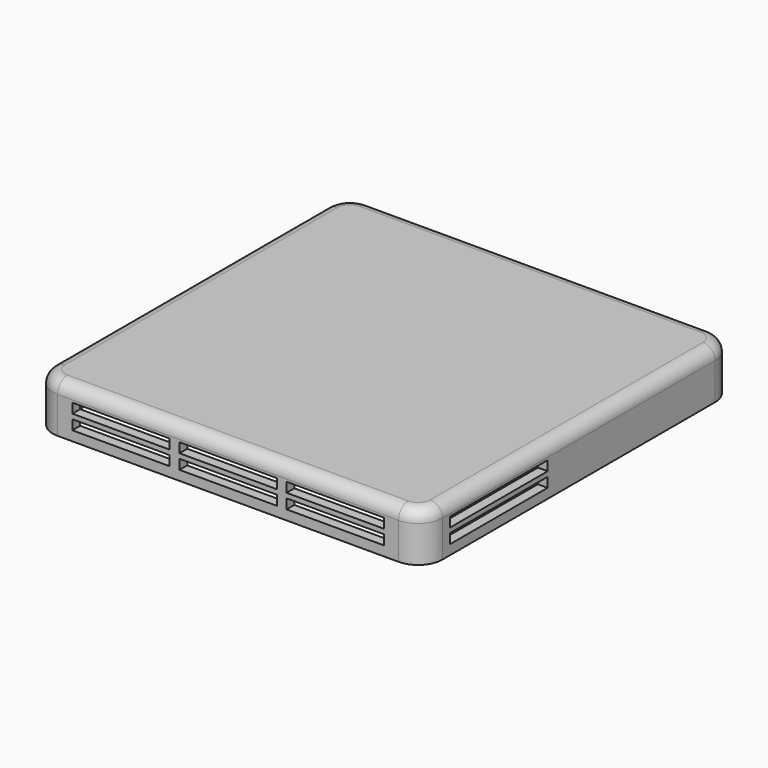
from build123d import *

# Parameters (mm, degrees)
PAD_DEPTH       = 10
FILLET_R        = 2.5
SKETCH002_W     = 20
SKETCH002_H     = 2
POCKET_DEPTH    = 2
POCKET001_DEPTH = 7
SKETCH013_R     = 3
PAD007_DEPTH    = 4
SKETCH014_R     = 1.5
PAD008_DEPTH    = 2
SKETCH015_W     = 25
SKETCH015_H     = 2
POCKET004_DEPTH = 2
SKETCH016_W     = 25
SKETCH016_H     = 2
POCKET005_DEPTH = 2
SKETCH017_W     = 20
SKETCH017_H     = 2
POCKET006_DEPTH = 2
SKETCH018_R     = 1.4
POCKET007_DEPTH = 4
SKETCH023_W     = 5.5
SKETCH023_H     = 1.6
PAD011_DEPTH    = 1.5
CHAMFER001_SIZE = 0.2
SKETCH024_W     = 2.2
SKETCH024_H     = 4.2
POCKET011_DEPTH = 0.5


with BuildPart() as part:
    # Sketch → Pad (new body)
    with BuildSketch(Plane.XY):
        with BuildLine():
            Line((-34.999972, -40), (34.999972, -40))
            ThreePointArc((34.999972, -40), (38.535524, -38.535544), (40, -35))
            Line((40, 35), (40, -35))
            ThreePointArc((40, 35), (38.535534, 38.535534), (35, 40))
            Line((35, 40), (-35, 40))
            ThreePointArc((-35, 40), (-38.535534, 38.535534), (-40, 35))
            Line((-40, 35), (-40, -35))
            ThreePointArc((-40, -35), (-38.535524, -38.535544), (-34.999972, -40))
        make_face()
    extrude(amount=PAD_DEPTH)

    # Fillet
    fillet_edges = [part.edges().sort_by_distance(p)[0] for p in [
        (38.535534, 38.535534, 10),
        (0, 40, 10),
        (-38.535534, 38.535534, 10),
        (-40, 0, 10),
        (-38.535524, -38.535544, 10),
        (0, -40, 10),
        (38.535524, -38.535544, 10),
        (40, 0, 10),
    ]]
    fillet(fillet_edges, radius=FILLET_R)

    # Sketch002 → Pocket (cut)
    with BuildSketch(Plane.XZ.offset(40)):
        with Locations((0, 3)):
            Rectangle(SKETCH002_W, SKETCH002_H)
        with Locations((0, 6)):
            Rectangle(SKETCH002_W, SKETCH002_H)
        with Locations((-22, 3)):
            Rectangle(SKETCH002_W, SKETCH002_H)
        with Locations((-22, 6)):
            Rectangle(SKETCH002_W, SKETCH002_H)
        with Locations((22, 6)):
            Rectangle(SKETCH002_W, SKETCH002_H)
        with Locations((22, 3)):
            Rectangle(SKETCH002_W, SKETCH002_H)
    extrude(amount=-POCKET_DEPTH, mode=Mode.SUBTRACT)

    # Sketch003 → Pocket001 (cut)
    with BuildSketch(Plane(origin=(0, 0, 0), x_dir=(1, 0, 0), z_dir=(0, 0, -1))):
        with BuildLine():
            ThreePointArc((38, 34.999972), (37.121312, 37.121312), (34.999972, 38))
            Line((-35, 38), (34.999972, 38))
            ThreePointArc((-35, 38), (-37.12132, 37.12132), (-38, 35))
            Line((-38, -35.000001), (-38, 35))
            ThreePointArc((-38, -35.000001), (-37.12132, -37.121321), (-35, -38))
            Line((34.999987, -38), (-35, -38))
            ThreePointArc((34.999987, -38), (37.121316, -37.121316), (38, -34.999986))
            Line((38, 34.999972), (38, -34.999986))
        make_face()
    extrude(amount=-POCKET001_DEPTH, mode=Mode.SUBTRACT)

    # Sketch013 → Pad007 (new body)
    with BuildSketch(Plane(origin=(0, 0, 7), x_dir=(1, 0, 0), z_dir=(0, 0, -1))):
        with Locations((-21.25, 26.25)):
            Circle(SKETCH013_R)
        with Locations((21.25, 26.25)):
            Circle(SKETCH013_R)
        with Locations((-21.25, -26.25)):
            Circle(SKETCH013_R)
        with Locations((21.25, -26.25)):
            Circle(SKETCH013_R)
        with Locations((-18, 0)):
            Circle(SKETCH013_R)
        with Locations((18, 0)):
            Circle(SKETCH013_R)
    extrude(amount=PAD007_DEPTH)

    # Sketch014 → Pad008 (new body)
    with BuildSketch(Plane(origin=(0, 0, 3), x_dir=(1, 0, 0), z_dir=(0, 0, -1))):
        with Locations((-21.25, 26.25)):
            Circle(SKETCH014_R)
        with Locations((21.25, 26.25)):
            Circle(SKETCH014_R)
        with Locations((-21.25, -26.25)):
            Circle(SKETCH014_R)
        with Locations((21.25, -26.25)):
            Circle(SKETCH014_R)
    extrude(amount=PAD008_DEPTH)

    # Sketch015 → Pocket004 (cut)
    with BuildSketch(Plane(origin=(-40, 0, 0), x_dir=(0, -1, 0), z_dir=(-1, 0, 0))):
        with Locations((20.5, 3)):
            Rectangle(SKETCH015_W, SKETCH015_H)
        with Locations((20.5, 6)):
            Rectangle(SKETCH015_W, SKETCH015_H)
    extrude(amount=-POCKET004_DEPTH, mode=Mode.SUBTRACT)

    # Sketch016 → Pocket005 (cut)
    with BuildSketch(Plane.YZ.offset(40)):
        with Locations((-20.5, 3)):
            Rectangle(SKETCH016_W, SKETCH016_H)
        with Locations((-20.5, 6)):
            Rectangle(SKETCH016_W, SKETCH016_H)
    extrude(amount=-POCKET005_DEPTH, mode=Mode.SUBTRACT)

    # Sketch017 → Pocket006 (cut)
    with BuildSketch(Plane(origin=(0, 40, 0), x_dir=(-1, 0, 0), z_dir=(0, 1, 0))):
        with Locations((0, 3)):
            Rectangle(SKETCH017_W, SKETCH017_H)
        with Locations((0, 6)):
            Rectangle(SKETCH017_W, SKETCH017_H)
        with Locations((-22, 3)):
            Rectangle(SKETCH017_W, SKETCH017_H)
        with Locations((-22, 6)):
            Rectangle(SKETCH017_W, SKETCH017_H)
        with Locations((22, 6)):
            Rectangle(SKETCH017_W, SKETCH017_H)
        with Locations((22, 3)):
            Rectangle(SKETCH017_W, SKETCH017_H)
    extrude(amount=-POCKET006_DEPTH, mode=Mode.SUBTRACT)

    # Sketch018 → Pocket007 (cut)
    with BuildSketch(Plane(origin=(0, 0, 3), x_dir=(1, 0, 0), z_dir=(0, 0, -1))):
        with Locations((-18, 0)):
            Circle(SKETCH018_R)
        with Locations((18, 0)):
            Circle(SKETCH018_R)
    extrude(amount=-POCKET007_DEPTH, mode=Mode.SUBTRACT)

    # Sketch023 → Pad011 (new body)
    with BuildSketch(Plane.XZ.offset(-38)):
        with Locations((34.749987, 3)):
            Rectangle(SKETCH023_W, SKETCH023_H)
        with Locations((-34.75, 3)):
            Rectangle(SKETCH023_W, SKETCH023_H)
    extrude(amount=PAD011_DEPTH)

    # Chamfer001
    chamfer001_edges = [part.edges().sort_by_distance(p)[0] for p in [
        (34.749987, 36.5, 2.2),
        (-34.75, 36.5, 3.8),
        (-34.75, 36.5, 2.2),
        (34.749987, 36.5, 3.8),
    ]]
    chamfer(chamfer001_edges, length=CHAMFER001_SIZE)

    # Sketch024 → Pocket011 (cut)
    with BuildSketch(Plane(origin=(0, -38, 0), x_dir=(-1, 0, 0), z_dir=(0, 1, 0))):
        with Locations((-33.999972, 3)):
            Rectangle(SKETCH024_W, SKETCH024_H)
        with Locations((34, 3)):
            Rectangle(SKETCH024_W, SKETCH024_H)
    extrude(amount=-POCKET011_DEPTH, mode=Mode.SUBTRACT)


solid = part.part
